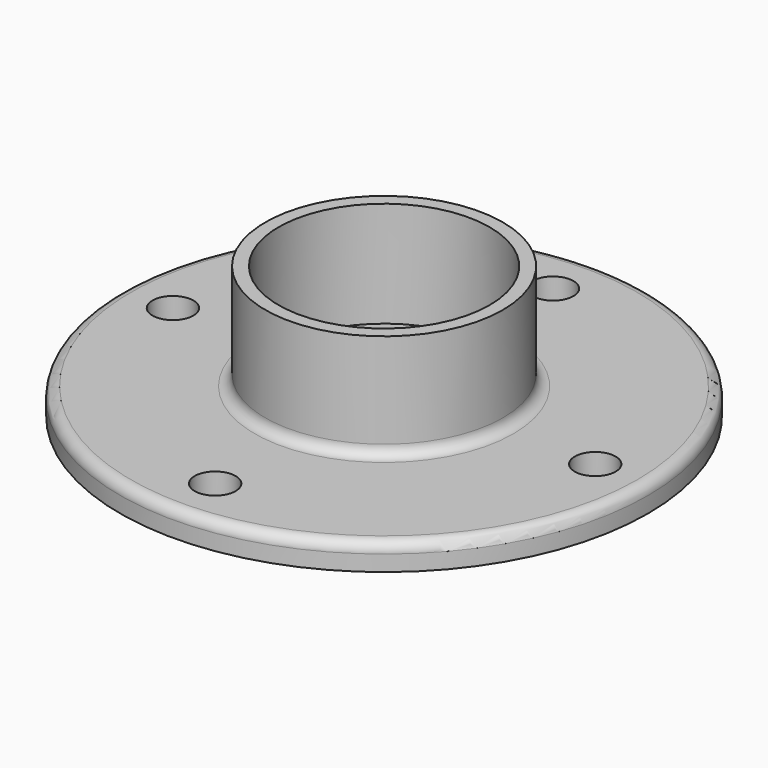
from build123d import *

# Parameters (mm, degrees)
F0_R     = 28.575
F0_R_2   = 25.4
F1_DEPTH = 25.4
F2_R     = 63.5
F3_DEPTH = 6.35
F4_R     = 2.54
F5_R     = 4.92125
F6_DEPTH = 6.35


with BuildPart() as f1:
    # F0 (on Top) → F1 (new body)
    with BuildSketch(Plane.XY):
        Circle(F0_R)
        Circle(F0_R_2, mode=Mode.SUBTRACT)
    extrude(amount=F1_DEPTH)

    # F2 (on Top) → F3 (join)
    with BuildSketch(Plane.XY):
        Circle(F2_R)
    extrude(amount=-F3_DEPTH)

    # F4
    f4_edges = [f1.edges().sort_by_distance(p)[0] for p in [
        (-63.5, 0, 0),
        (-28.575, 0, 0),
    ]]
    fillet(f4_edges, radius=F4_R)

    # F5 (on face) → F6 (cut, through all)
    with BuildSketch(Plane.XY):
        with Locations((50.8, 0)):
            Circle(F5_R)
        with Locations((0, -50.8)):
            Circle(F5_R)
        with Locations((-50.8, 0)):
            Circle(F5_R)
        with Locations((0, 50.8)):
            Circle(F5_R)
    extrude(amount=-F6_DEPTH, mode=Mode.SUBTRACT)


solid = f1.part
